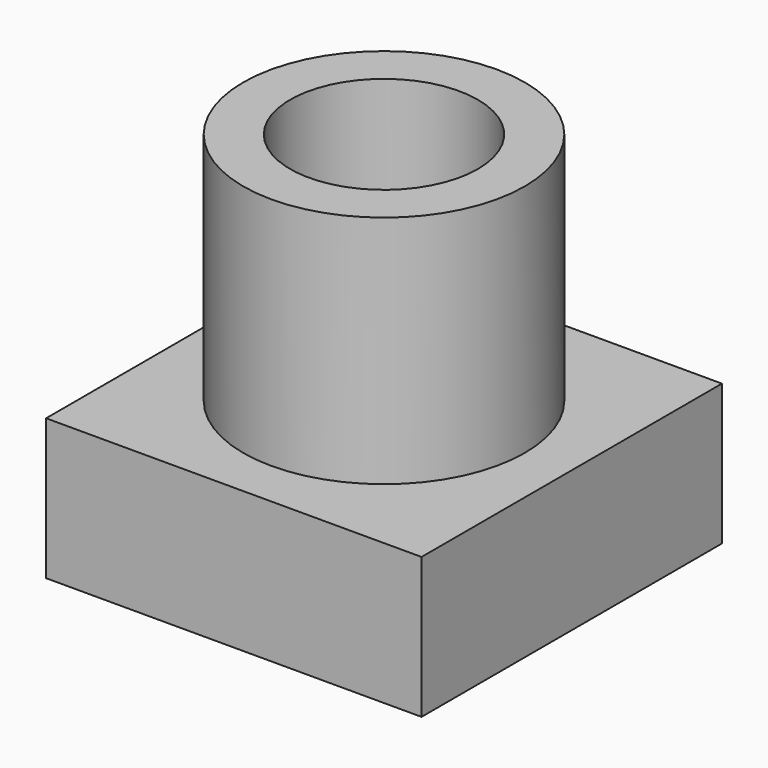
from build123d import *

# Parameters (mm, degrees)
F0_W     = 8
F0_H     = 8
F1_DEPTH = 3
F2_R     = 3
F3_DEPTH = 5
F4_R     = 2
F5_DEPTH = 5


with BuildPart() as f1:
    # F0 (on Top) → F1 (new body)
    with BuildSketch(Plane.XY):
        Rectangle(F0_W, F0_H)
    extrude(amount=F1_DEPTH)

    # F2 (on face) → F3 (join)
    with BuildSketch(Plane.XY.offset(3)):
        Circle(F2_R)
    extrude(amount=F3_DEPTH)

    # F4 (on face) → F5 (cut)
    with BuildSketch(Plane.XY.offset(8)):
        Circle(F4_R)
    extrude(amount=-F5_DEPTH, mode=Mode.SUBTRACT)


solid = f1.part
